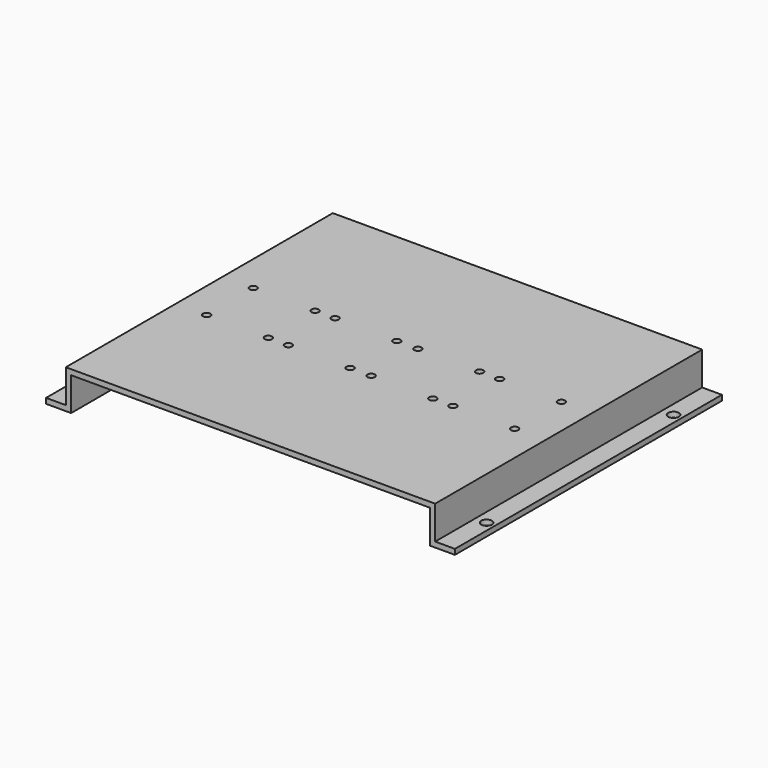
from build123d import *

# Parameters (mm, degrees)
F1_DEPTH      = 100
F2_R          = 3.2
F2_R_2        = 2.2
F3_DEPTH      = 10.001
F3_DEPTH_BACK = 13.176


with BuildPart() as f1:
    # F0 (on Front) → F1 (new body, symmetric)
    with BuildSketch(Plane.XZ):
        Polygon((-107.5, 10), (107.5, 10), (107.5, -10), (122.5, -10), (122.5, -6.825), (110.675, -6.825), (110.675, 13.175), (-110.675, 13.175), (-110.675, -6.825), (-122.5, -6.825), (-122.5, -10), (-107.5, -10), align=None)
    extrude(amount=F1_DEPTH, both=True)

    # F2 (on Top) → F3 (cut, two sides)
    with BuildSketch(Plane.XY) as f3_sk:
        with Locations((-117.5, -70)):
            Circle(F2_R)
        with Locations((-92.3, -17.5)):
            Circle(F2_R_2)
        with Locations((-55.3, -17.5)):
            Circle(F2_R_2)
        with Locations((-43.3, -17.5)):
            Circle(F2_R_2)
        with Locations((-6.3, -17.5)):
            Circle(F2_R_2)
        with Locations((6.3, -17.5)):
            Circle(F2_R_2)
        with Locations((43.3, -17.5)):
            Circle(F2_R_2)
        with Locations((55.3, -17.5)):
            Circle(F2_R_2)
        with Locations((92.3, -17.5)):
            Circle(F2_R_2)
        with Locations((117.5, -70)):
            Circle(F2_R)
        with Locations((-92.3, 17.5)):
            Circle(F2_R_2)
        with Locations((43.3, 17.5)):
            Circle(F2_R_2)
        with Locations((55.3, 17.5)):
            Circle(F2_R_2)
        with Locations((6.3, 17.5)):
            Circle(F2_R_2)
        with Locations((-6.3, 17.5)):
            Circle(F2_R_2)
        with Locations((-43.3, 17.5)):
            Circle(F2_R_2)
        with Locations((92.3, 17.5)):
            Circle(F2_R_2)
        with Locations((-55.3, 17.5)):
            Circle(F2_R_2)
        with Locations((-117.5, 70)):
            Circle(F2_R)
        with Locations((117.5, 70)):
            Circle(F2_R)
    extrude(amount=-F3_DEPTH, mode=Mode.SUBTRACT)
    extrude(f3_sk.sketch, amount=F3_DEPTH_BACK, mode=Mode.SUBTRACT)


solid = f1.part
